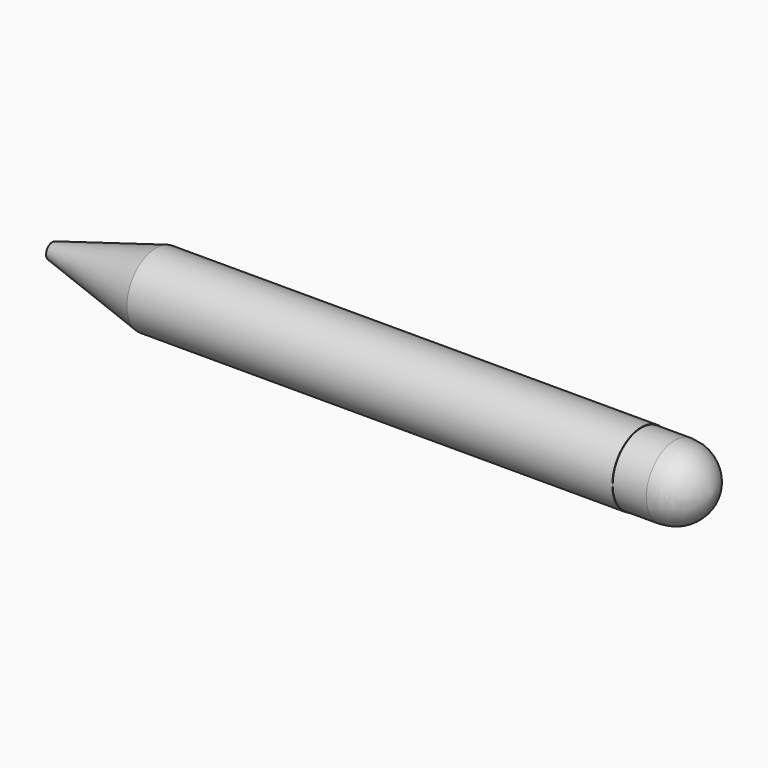
from build123d import *


with BuildPart() as f1:
    # F0 (on Top) → F1 (revolve)
    with BuildSketch(Plane.XY):
        with BuildLine():
            Line((119.833, 0), (0, 0))
            Line((0, 0), (0, -1.5))
            Line((0, -1.5), (20, -7))
            Line((20, -7), (113.5, -7))
            Line((113.5, -7), (113.5, -6.9))
            Line((113.5, -6.9), (119.983926, -6.9))
            ThreePointArc((119.983926, -6.9), (125.024236, -4.904662), (127.333, 0))
            Line((127.333, 0), (119.833, 0))
        make_face()
    revolve(axis=Axis((59.9165, 0, 0), (1, 0, 0)))


solid = f1.part
